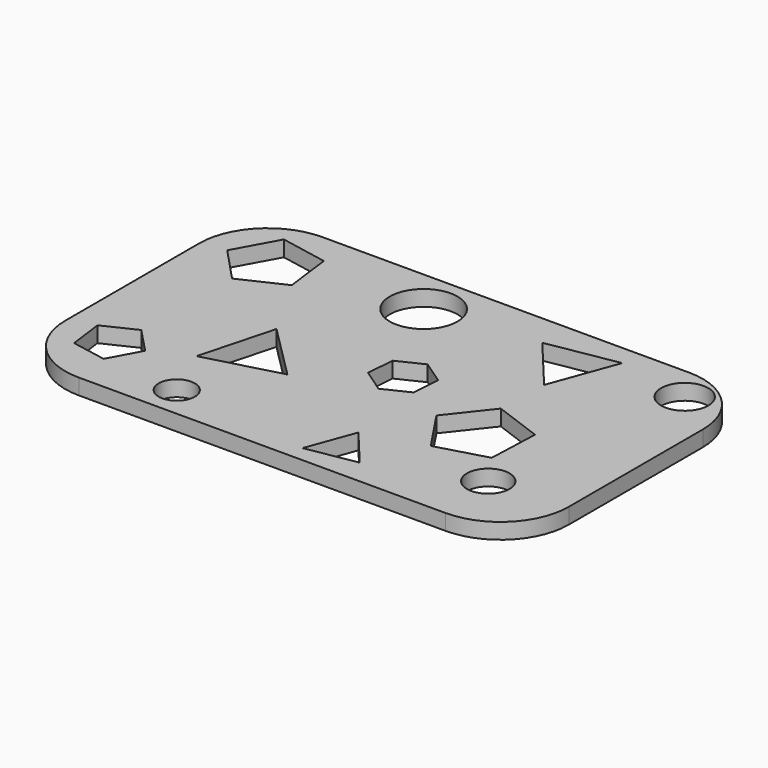
from build123d import *

# Parameters (mm, degrees)
F0_W     = 121.92
F0_H     = 73.66
F1_DEPTH = 3.81
F2_R     = 16.556677
F3_R     = 8.202995
F3_R_2   = 5.144325
F3_R_3   = 4.381005
F3_R_4   = 5.718053
F4_DEPTH = 3.811


with BuildPart() as f1:
    # F0 (on Top) → F1 (new body)
    with BuildSketch(Plane.XY):
        with Locations((2.327671, 13.414853)):
            Rectangle(F0_W, F0_H)
    extrude(amount=F1_DEPTH)

    # F2
    f2_edges = [f1.edges().sort_by_distance(p)[0] for p in [
        (-58.632329, -23.415147, 1.905),
        (63.287671, -23.415147, 1.905),
        (63.287671, 50.244853, 1.905),
        (-58.632329, 50.244853, 1.905),
    ]]
    fillet(f2_edges, radius=F2_R)

    # F3 (on face) → F4 (cut, through all)
    with BuildSketch(Plane.XY.offset(3.81)):
        Polygon((-44.776369, 26.324741), (-34.277338, 31.26546), (-35.731862, 42.777398), (-47.129838, 44.951449), (-52.719651, 34.783147), align=None)
        Polygon((39.868699, 12.182859), (28.134486, 16.505987), (20.396876, 6.682008), (27.348982, -3.712673), (39.38323, -0.31296), align=None)
        Polygon((-39.143418, -7.019384), (-45.010525, -0.843484), (-52.697191, -4.514976), (-51.580704, -12.959983), (-43.204012, -14.507793), align=None)
        with Locations((-8.712908, 39.208088)):
            Circle(F3_R)
        with Locations((44.839598, -8.181633)):
            Circle(F3_R_2)
        with Locations((-24.438646, -15.831992)):
            Circle(F3_R_3)
        with Locations((52.277453, 41.970715)):
            Circle(F3_R_4)
        Polygon((-12.075472, 2.19376), (-25.326282, 15.444567), (-30.176412, -2.656374), align=None)
        Polygon((17.429908, 42.43333), (28.472248, 29.18253), (34.426607, 45.370877), align=None)
        Polygon((21.141237, -17.442858), (13.236605, -7.957305), (8.974191, -19.545694), align=None)
        Polygon((6.042457, 21.979525), (-0.092179, 19.034901), (-0.609377, 12.249838), (5.00806, 8.4094), (11.142695, 11.354025), (11.659894, 18.139087), align=None)
    extrude(amount=-F4_DEPTH, mode=Mode.SUBTRACT)


solid = f1.part
